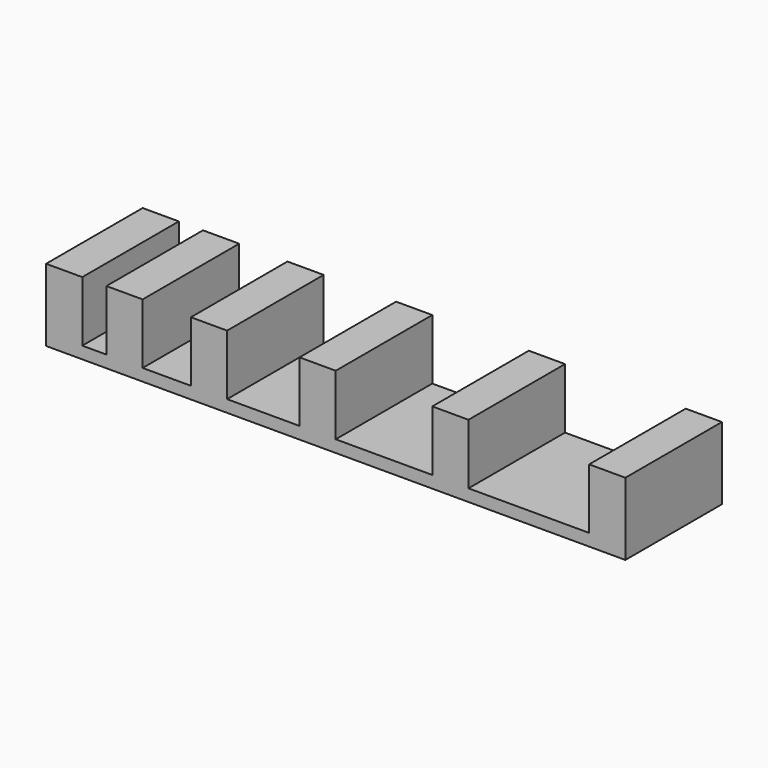
from build123d import *

# Parameters (mm, degrees)
F0_W     = 3
F0_H     = 10
F1_DEPTH = 5
F2_W     = 45
F2_H     = 10
F2_W_2   = 3
F3_DEPTH = 1


with BuildPart() as f1:
    # F0 (on Top) → F1 (new body)
    with BuildSketch(Plane.XY):
        with Locations((-26.961136, -5)):
            Rectangle(F0_W, F0_H)
        with Locations((-21.961136, -5)):
            Rectangle(F0_W, F0_H)
        with Locations((-14.961136, -5)):
            Rectangle(F0_W, F0_H)
        with Locations((-5.961136, -5)):
            Rectangle(F0_W, F0_H)
        with Locations((5.038864, -5)):
            Rectangle(F0_W, F0_H)
        with Locations((18.038864, -5)):
            Rectangle(F0_W, F0_H)
    extrude(amount=F1_DEPTH)

    # F2 (on face) → F3 (join)
    with BuildSketch(Plane(origin=(0, 0, 0), x_dir=(1, 0, 0), z_dir=(0, 0, -1))):
        with Locations((-2.961136, 5)):
            Rectangle(F2_W, F2_H)
        with Locations((-26.961136, 5)):
            Rectangle(F2_W_2, F2_H)
    extrude(amount=F3_DEPTH)


solid = f1.part
